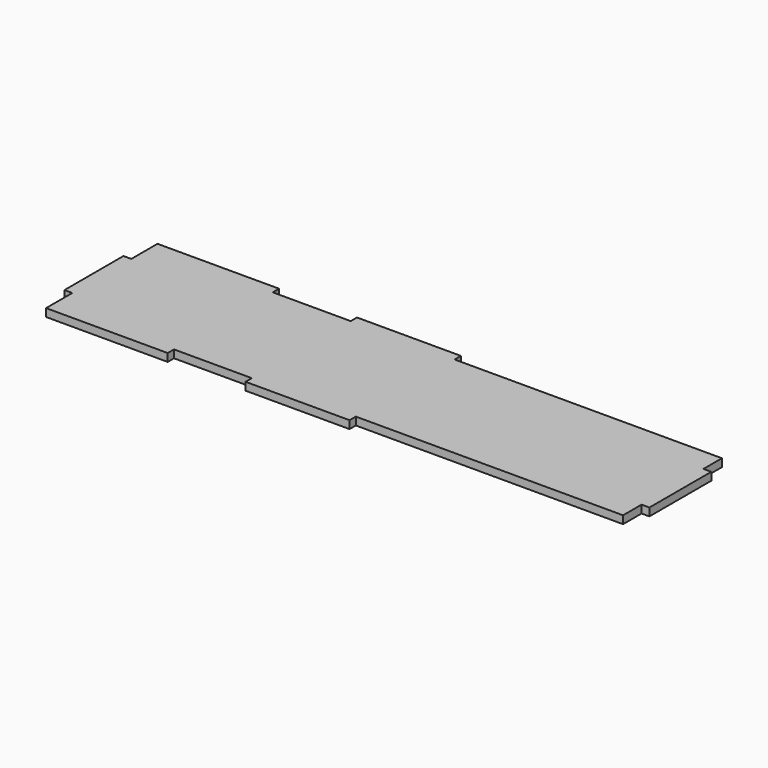
from build123d import *

# Parameters (mm, degrees)
F1_DEPTH = 4.45


with BuildPart() as f1:
    # F0 (on Top) → F1 (new body)
    with BuildSketch(Plane.XY):
        Polygon((-17.05143, -35), (27.05143, -35), (27.05143, -39.45), (85.94943, -39.45), (85.94943, -35), (237.34357, -35), (237.34357, -21.888562), (241.79357, -21.888562), (241.79357, 21.888562), (237.34357, 21.888562), (237.34357, 35), (85.94943, 35), (85.94943, 39.45), (27.05143, 39.45), (27.05143, 35), (-17.05143, 35), (-17.05143, 39.45), (-85.94943, 39.45), (-85.94943, 35), (-85.94943, 20.88856), (-90.39943, 20.88856), (-90.39943, -20.88856), (-85.94943, -20.88856), (-85.94943, -35), (-85.94943, -39.45), (-17.05143, -39.45), align=None)
    extrude(amount=F1_DEPTH)


solid = f1.part
